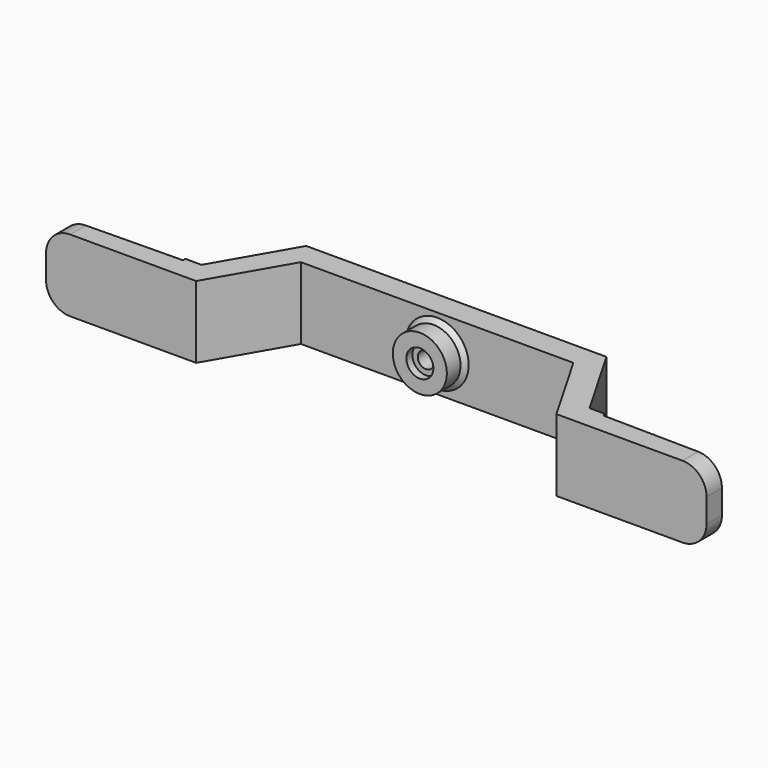
from build123d import *

# Parameters (mm, degrees)
PAD_DEPTH       = 12
SKETCH002_R     = 9
PAD001_DEPTH    = 7.2
SKETCH003_R     = 4.5
POCKET_DEPTH    = 2.5
SKETCH004_R     = 2.7
POCKET001_DEPTH = 12.701
CHAMFER_SIZE    = 1.5
FILLET_R        = 8


with BuildPart() as part:
    # Sketch → Pad (new body, symmetric)
    with BuildSketch(Plane.XY):
        Polygon((-110, 0), (-60, 0), (-45.38, 25.322583), (45.38, 25.322583), (60, 0), (110, 0), (110, 6.4), (70, 7), (70, 8), (64.62, 8), (50, 33.322583), (-50, 33.322583), (-64.62, 8), (-70, 8), (-70, 7), (-110, 6.4), align=None)
    extrude(amount=PAD_DEPTH, both=True)

    # Sketch002 → Pad001 (join)
    with BuildSketch(Plane.XZ.offset(-25.322583)):
        Circle(SKETCH002_R)
    extrude(amount=PAD001_DEPTH)

    # Sketch003 (on Face20 of Pad001) → Pocket (cut)
    with BuildSketch(Plane.XZ.offset(-18.122583)):
        Circle(SKETCH003_R)
    extrude(amount=-POCKET_DEPTH, mode=Mode.SUBTRACT)

    # Sketch004 (on Face22 of Pocket) → Pocket001 (cut, through all)
    with BuildSketch(Plane.XZ.offset(-20.622583)):
        Circle(SKETCH004_R)
    extrude(amount=-POCKET001_DEPTH, mode=Mode.SUBTRACT)

    # Chamfer
    chamfer_edges = [part.edges().sort_by_distance(p)[0] for p in [
        (-9, 25.322583, 0),
    ]]
    chamfer(chamfer_edges, length=CHAMFER_SIZE)

    # Fillet
    fillet_edges = [part.edges().sort_by_distance(p)[0] for p in [
        (-110, 3.2, -12),
        (-110, 3.2, 12),
        (110, 3.2, -12),
        (110, 3.2, 12),
    ]]
    fillet(fillet_edges, radius=FILLET_R)


solid = part.part
